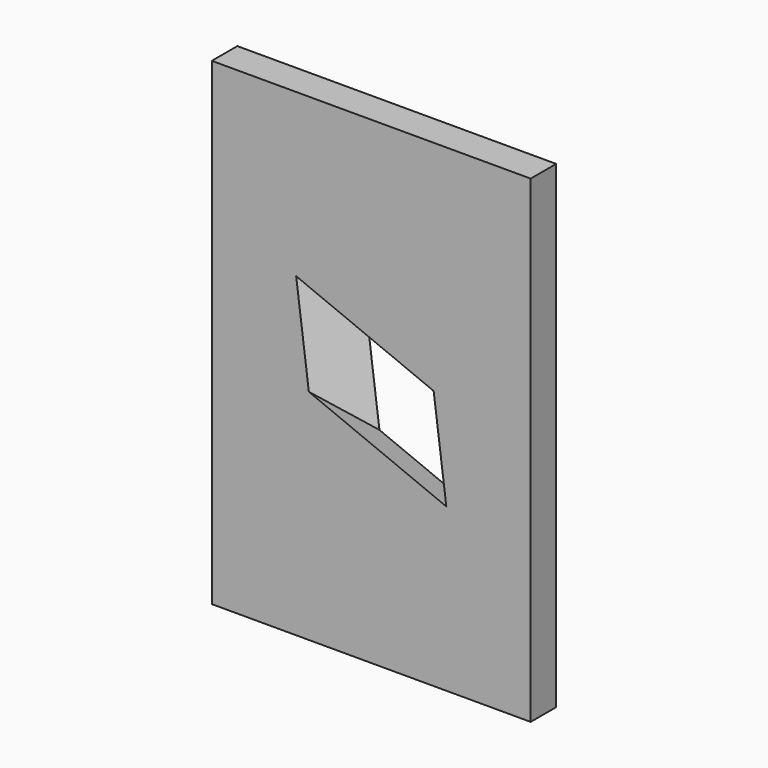
from build123d import *

# Parameters (mm, degrees)
F0_W     = 100
F0_H     = 150
F1_DEPTH = 10
F7_DEPTH = 127.856339


with BuildPart() as f1:
    # F0 (on Front) → F1 (new body)
    with BuildSketch(Plane.XZ):
        Rectangle(F0_W, F0_H)
    extrude(amount=-F1_DEPTH)

    # F6 (on face) → F7 (cut, through all)
    with BuildSketch(Plane(origin=(-35.355339, -25, 25), x_dir=(0.408248, -0.866025, -0.288675), z_dir=(-0.707107, -0.5, 0.5))):
        Polygon((-16.583499, 6.122708), (-6.122708, -16.583499), (16.583499, -6.122708), (6.122708, 16.583499), align=None)
    extrude(amount=-F7_DEPTH, mode=Mode.SUBTRACT)


solid = f1.part
